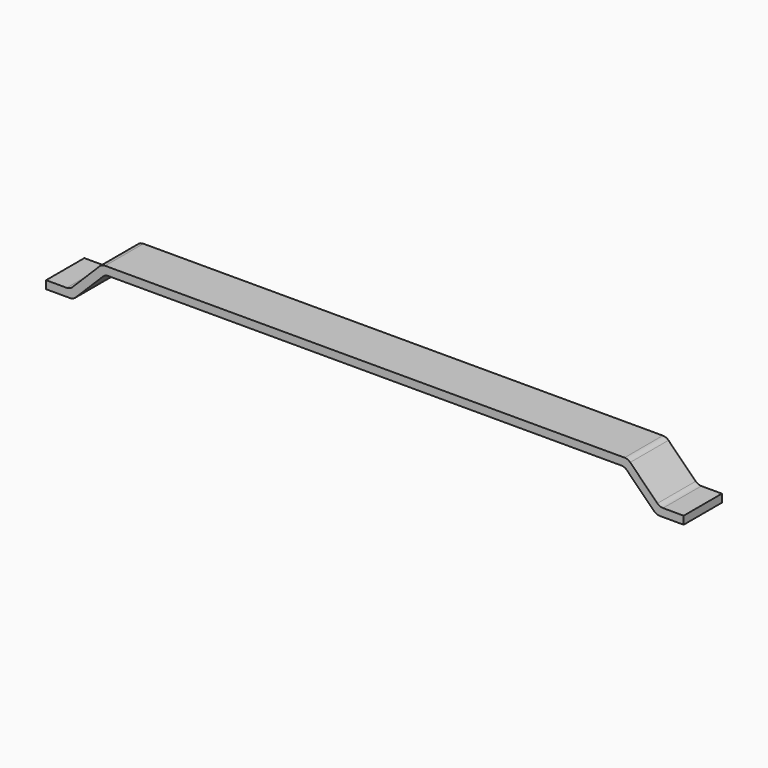
from build123d import *

# Parameters (mm, degrees)
PAD006_DEPTH = 0.3
FILLET005_R  = 0.1


with BuildPart() as part:
    # Sketch007 → Pad006 (new body, symmetric)
    with BuildSketch(Plane.XZ):
        Polygon((-4, 0), (-4, 0.1), (-3.7, 0.1), (-3.3, 0.5), (0, 0.5), (0, 0.4), (-3.258579, 0.4), (-3.658579, 0), align=None)
    pad006 = extrude(amount=PAD006_DEPTH, both=True)

    # Mirrored: Pad006 across Sketch007 V_Axis
    add(pad006.mirror(Plane(origin=(0, 0, 0), x_dir=(0, -1, 0), z_dir=(1, 0, 0))))

    # Fillet005
    fillet005_edges = [part.edges().sort_by_distance(p)[0] for p in [
        (-3.7, 0, 0.1),
        (-3.3, 0, 0.5),
        (-3.658579, 0, 0),
        (-3.258579, 0, 0.4),
        (3.258579, 0, 0.4),
        (3.658579, 0, 0),
        (3.3, 0, 0.5),
        (3.7, 0, 0.1),
    ]]
    fillet(fillet005_edges, radius=FILLET005_R)


solid = part.part
